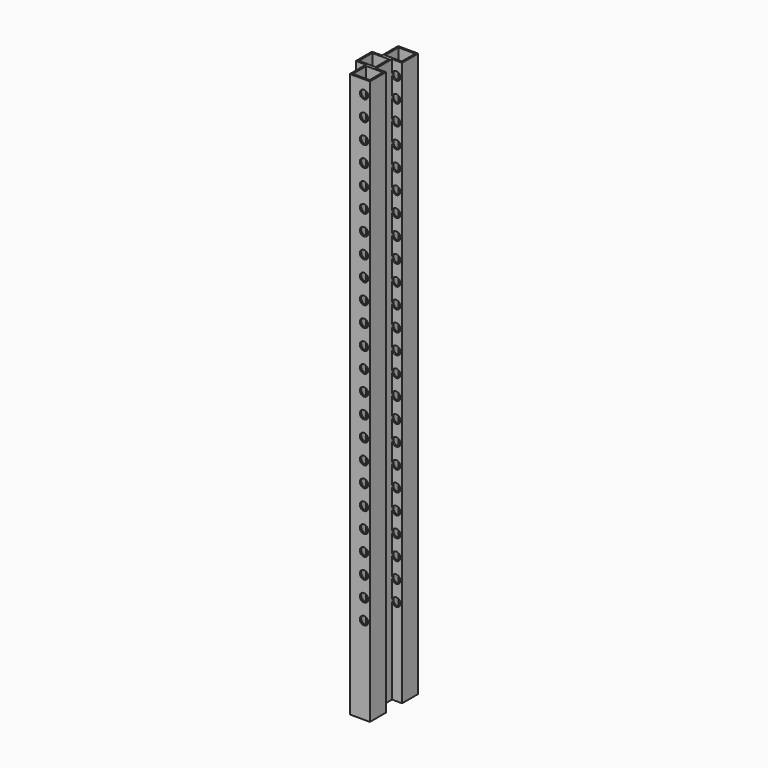
from build123d import *

# Parameters (mm, degrees)
F0_W     = 63.5
F0_H     = 63.5
F1_DEPTH = 2133.6
F2_R     = 15.875
F3_DEPTH = 228.6


with BuildPart() as f1:
    # F0 (on Top) → F1 (new body)
    with BuildSketch(Plane.XY):
        Polygon((-647.7, 38.1), (-609.6, 38.1), (-571.5, 38.1), (-571.5, 114.3), (-647.7, 114.3), align=None)
        with Locations((-609.6, 76.2)):
            Rectangle(F0_W, F0_H, mode=Mode.SUBTRACT)
        Polygon((-609.6, -38.1), (-609.6, 38.1), (-647.7, 38.1), (-685.8, 38.1), (-685.8, -38.1), (-647.7, -38.1), align=None)
        with Locations((-647.7, 0)):
            Rectangle(F0_W, F0_H, mode=Mode.SUBTRACT)
        Polygon((-571.5, -38.1), (-609.6, -38.1), (-647.7, -38.1), (-647.7, -114.3), (-571.5, -114.3), align=None)
        with Locations((-609.6, -76.2)):
            Rectangle(F0_W, F0_H, mode=Mode.SUBTRACT)
    extrude(amount=F1_DEPTH)

    # F2 (on face) → F3 (cut, through all)
    with BuildSketch(Plane.XZ.offset(114.3)):
        with Locations((-593.725, 2082.8)):
            Circle(F2_R)
        with Locations((-593.725, 2006.6)):
            Circle(F2_R)
        with Locations((-593.725, 1930.4)):
            Circle(F2_R)
        with Locations((-593.725, 1854.2)):
            Circle(F2_R)
        with Locations((-593.725, 1778)):
            Circle(F2_R)
        with Locations((-593.725, 1701.8)):
            Circle(F2_R)
        with Locations((-593.725, 1625.6)):
            Circle(F2_R)
        with Locations((-593.725, 1549.4)):
            Circle(F2_R)
        with Locations((-593.725, 1473.2)):
            Circle(F2_R)
        with Locations((-593.725, 1397)):
            Circle(F2_R)
        with Locations((-593.725, 1320.8)):
            Circle(F2_R)
        with Locations((-593.725, 1244.6)):
            Circle(F2_R)
        with Locations((-593.725, 1168.4)):
            Circle(F2_R)
        with Locations((-593.725, 1092.2)):
            Circle(F2_R)
        with Locations((-593.725, 1016)):
            Circle(F2_R)
        with Locations((-593.725, 939.8)):
            Circle(F2_R)
        with Locations((-593.725, 863.6)):
            Circle(F2_R)
        with Locations((-593.725, 787.4)):
            Circle(F2_R)
        with Locations((-593.725, 711.2)):
            Circle(F2_R)
        with Locations((-593.725, 635)):
            Circle(F2_R)
        with Locations((-593.725, 558.8)):
            Circle(F2_R)
        with Locations((-593.725, 482.6)):
            Circle(F2_R)
        with Locations((-593.725, 406.4)):
            Circle(F2_R)
        with Locations((-593.725, 330.2)):
            Circle(F2_R)
    extrude(amount=-F3_DEPTH, mode=Mode.SUBTRACT)


solid = f1.part
